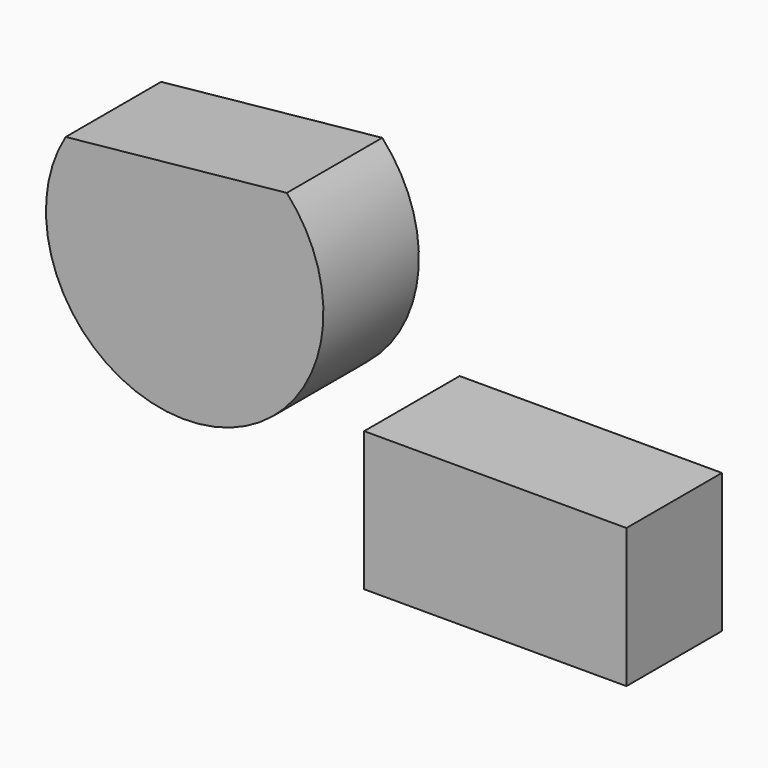
from build123d import *

# Parameters (mm, degrees)
F0_W     = 55.834214
F0_H     = 29.635703
F1_DEPTH = 25.4


with BuildPart() as f1:
    # F0 (on Front) → F1 (new body)
    with BuildSketch(Plane.XZ):
        with BuildLine():
            Line((-41.008829, 56.400996), (-88.0741, 51.58112))
            ThreePointArc((-88.0741, 51.58112), (-59.731212, 7.019752), (-41.008829, 56.400996))
        make_face()
        with Locations((3.379441, 2.297951)):
            Rectangle(F0_W, F0_H)
    extrude(amount=F1_DEPTH)


solid = f1.part
